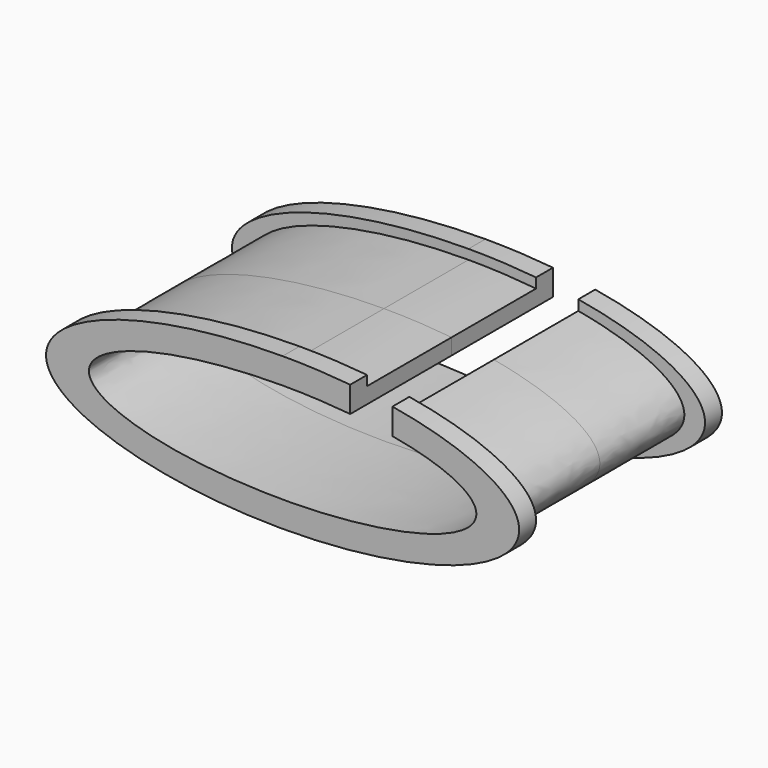
from build123d import *

# Parameters (mm, degrees)
F1_DEPTH = 15.875
F3_DEPTH = 3.175
F5_DEPTH = 19.051
F6_W     = 6.35
F6_H     = 8.19585
F7_DEPTH = 19.051


with BuildPart() as f1:
    # F0 (on Front) → F1 (new body)
    with BuildSketch(Plane.XZ):
        with BuildLine():
            add(Edge.make_bspline(
                [(0, 9.97585), (-56.202451, 9.97585), (-28.101225, -4.987925), (0, -19.9517), (28.101225, -4.987925), (56.202451, 9.97585), (0, 9.97585)],
                knots=[4.712389, 4.712389, 4.712389, 6.806784, 6.806784, 8.901179, 8.901179, 10.995574, 10.995574, 10.995574], degree=2, weights=[1, 0.5, 1, 0.5, 1, 0.5, 1]))
        make_face()
    extrude(amount=F1_DEPTH)

    # F2 (on face) → F3 (join)
    with BuildSketch(Plane.XZ.offset(15.875)):
        with BuildLine():
            add(Edge.make_bspline(
                [(0, 11.43), (-61.591727, 11.43), (-30.795863, -5.715), (0, -22.86), (30.795863, -5.715), (61.591727, 11.43), (0, 11.43)],
                knots=[4.712389, 4.712389, 4.712389, 6.806784, 6.806784, 8.901179, 8.901179, 10.995574, 10.995574, 10.995574], degree=2, weights=[1, 0.5, 1, 0.5, 1, 0.5, 1]))
        make_face()
    extrude(amount=F3_DEPTH)

    # F4 (on face) → F5 (cut, through all)
    with BuildSketch(Plane(origin=(0, 0, 0), x_dir=(-1, 0, 0), z_dir=(0, 1, 0))):
        with BuildLine():
            add(Edge.make_bspline(
                [(0, 7.54528), (-50.436174, 7.54528), (-25.218087, -3.77264), (0, -15.090561), (25.218087, -3.77264), (50.436174, 7.54528), (0, 7.54528)],
                knots=[4.712389, 4.712389, 4.712389, 6.806784, 6.806784, 8.901179, 8.901179, 10.995574, 10.995574, 10.995574], degree=2, weights=[1, 0.5, 1, 0.5, 1, 0.5, 1]))
        make_face()
    extrude(amount=-F5_DEPTH, mode=Mode.SUBTRACT)

    # F6 (on face) → F7 (cut, through all)
    with BuildSketch(Plane.XZ.offset(19.05)):
        with Locations((13.335, 8.090382)):
            Rectangle(F6_W, F6_H)
    extrude(amount=-F7_DEPTH, mode=Mode.SUBTRACT)

    # F8: F1 across face


with BuildPart() as f1_1:
    add(f1.part)
    add(f1.part.mirror(Plane(origin=(-0.593068, 0, -0.396997), x_dir=(1, 0, 0), z_dir=(0, 1, 0))))


solid = f1_1.part
